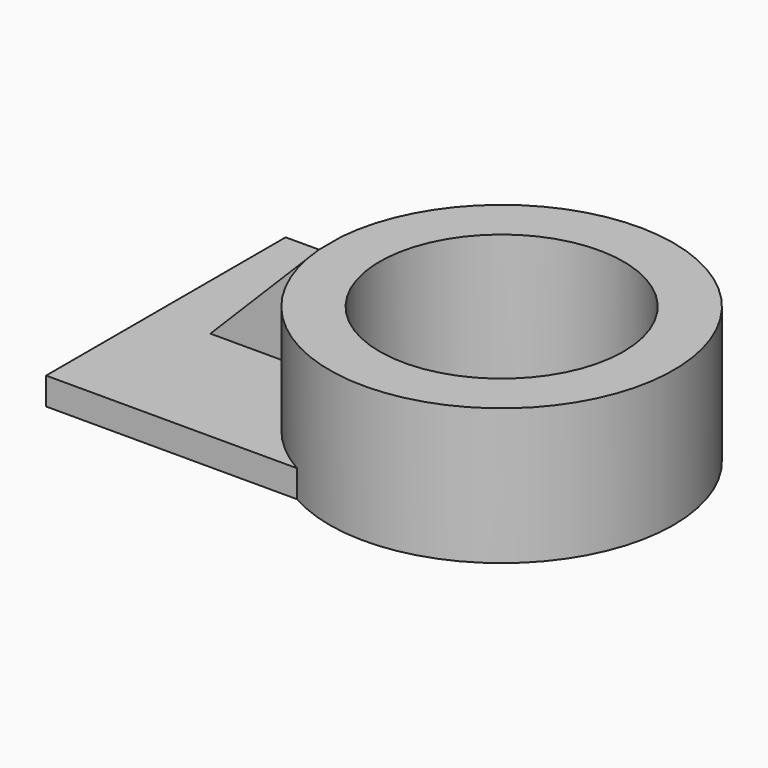
from build123d import *

# Parameters (mm, degrees)
F1_DEPTH = 7.62
F2_R     = 48.082642
F2_R_2   = 34.067148
F3_DEPTH = 38.1
F5_DEPTH = 38.1
F7_DEPTH = 52.059737


with BuildPart() as f1:
    # F0 (on Top) → F1 (new body)
    with BuildSketch(Plane.XY):
        with BuildLine():
            Line((-45.755789, -41.841321), (45.755789, -41.841321))
            ThreePointArc((45.755789, -41.841321), (3.914468, 0), (45.755789, 41.841321))
            Line((45.755789, 41.841321), (-45.755789, 41.841321))
            Line((-45.755789, 41.841321), (-45.755789, -41.841321))
        make_face()
    extrude(amount=F1_DEPTH)

    # F2 (on Top) → F3 (join)
    with BuildSketch(Plane.XY):
        with Locations((48.082642, 0)):
            Circle(F2_R)
        with Locations((48.082642, 0)):
            Circle(F2_R_2, mode=Mode.SUBTRACT)
    extrude(amount=F3_DEPTH)

    # F4 (on face) → F5 (join)
    with BuildSketch(Plane.XY.offset(7.62)):
        with BuildLine():
            Line((0.164679, -3.976095), (0.164679, 3.976095))
            ThreePointArc((0.164679, 3.976095), (0, 0), (0.164679, -3.976095))
        make_face()
        with BuildLine():
            ThreePointArc((0.164679, -3.976095), (0, 0), (0.164679, 3.976095))
            Line((0.164679, 3.976095), (-30.132134, 3.976095))
            Line((-30.132134, 3.976095), (-30.132134, -3.976095))
            Line((-30.132134, -3.976095), (0.164679, -3.976095))
        make_face()
    extrude(amount=F5_DEPTH)

    # F6 (on face) → F7 (cut, through all)
    with BuildSketch(Plane.XZ.offset(3.976095)):
        Polygon((-30.132134, 7.62), (0.164679, 38.1), (0.164679, 45.72), (-30.132134, 45.72), align=None)
    extrude(amount=-F7_DEPTH, mode=Mode.SUBTRACT)


solid = f1.part
